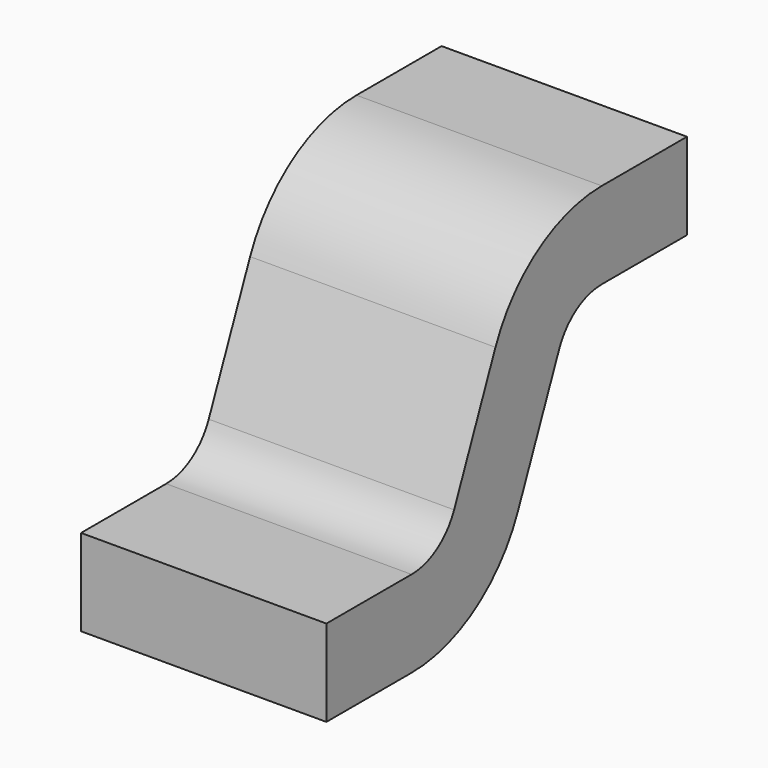
from build123d import *

# Parameters (mm, degrees)
PAD003_DEPTH = 0.2125
FILLET004_R  = 0.1
FILLET005_R  = 0.25


with BuildPart() as part:
    # Sketch003 → Pad003 (new body, symmetric)
    with BuildSketch(Plane.YZ):
        Polygon((-0.469369, 0.425), (-0.72, 0.425), (-0.9, 0), (-1.25, 0), (-1.25, 0.15), (-0.999369, 0.15), (-0.819369, 0.575), (-0.469369, 0.575), align=None)
    extrude(amount=PAD003_DEPTH, both=True)

    # Fillet004
    fillet004_edges = [part.edges().sort_by_distance(p)[0] for p in [
        (0, -0.999369, 0.15),
        (0, -0.72, 0.425),
    ]]
    fillet(fillet004_edges, radius=FILLET004_R)

    # Fillet005
    fillet005_edges = [part.edges().sort_by_distance(p)[0] for p in [
        (0, -0.9, 0),
        (0, -0.819369, 0.575),
    ]]
    fillet(fillet005_edges, radius=FILLET005_R)


with BuildPart() as part_1:
    # Body003 placement: moved
    add(part.part.moved(Location((0.8, 0, 0))))


solid = part_1.part
